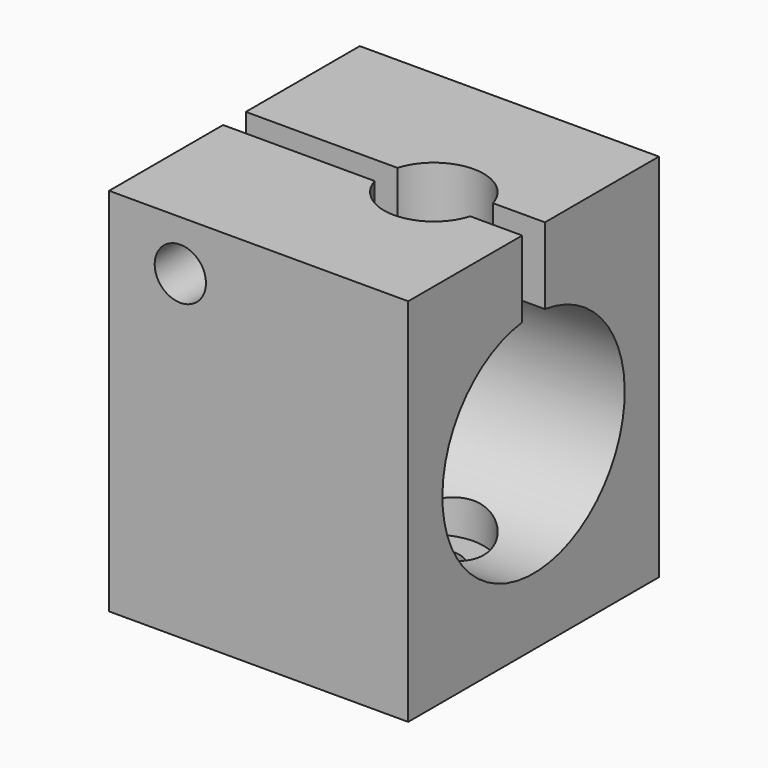
from build123d import *

# Parameters (mm, degrees)
BOX_W           = 21
BOX_H           = 22
BOX_DEPTH       = 26
SKETCH_R        = 8
POCKET_DEPTH    = 21.001
SKETCH001_R     = 3.5
POCKET001_DEPTH = 23
SKETCH002_R     = 1.8
POCKET002_DEPTH = 5
SKETCH003_R     = 1.8
POCKET003_DEPTH = 22.001
SKETCH004_W     = 2
SKETCH004_H     = 11.298807
POCKET004_DEPTH = 21.001


with BuildPart() as part:
    # Box → Box (new body)
    with BuildSketch(Plane.XY):
        with Locations((10.5, 11)):
            Rectangle(BOX_W, BOX_H)
    extrude(amount=BOX_DEPTH)

    # Sketch → Pocket (cut, through all)
    with BuildSketch(Plane.YZ.offset(21)):
        with Locations((11, 12.7)):
            Circle(SKETCH_R)
    extrude(amount=-POCKET_DEPTH, mode=Mode.SUBTRACT)

    # Sketch001 → Pocket001 (cut)
    with BuildSketch(Plane.XY.offset(26)):
        with Locations((14, 11)):
            Circle(SKETCH001_R)
    extrude(amount=-POCKET001_DEPTH, mode=Mode.SUBTRACT)

    # Sketch002 → Pocket002 (cut)
    with BuildSketch(Plane.XY.offset(3)):
        with Locations((14, 11)):
            Circle(SKETCH002_R)
    extrude(amount=-POCKET002_DEPTH, mode=Mode.SUBTRACT)

    # Sketch003 → Pocket003 (cut, through all)
    with BuildSketch(Plane(origin=(0, 22, 0), x_dir=(-1, 0, 0), z_dir=(0, 1, 0))):
        with Locations((-5, 22.5)):
            Circle(SKETCH003_R)
    extrude(amount=-POCKET003_DEPTH, mode=Mode.SUBTRACT)

    # Sketch004 → Pocket004 (cut, through all)
    with BuildSketch(Plane.YZ.offset(21)):
        with Locations((11, 23.747477)):
            Rectangle(SKETCH004_W, SKETCH004_H)
    extrude(amount=-POCKET004_DEPTH, mode=Mode.SUBTRACT)


solid = part.part
